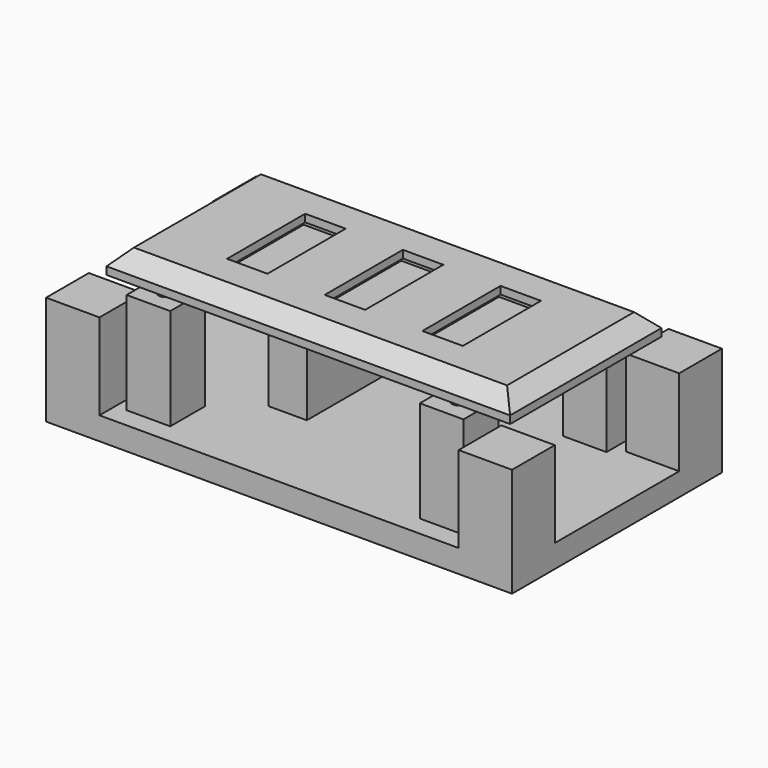
from build123d import *

# Parameters (mm, degrees)
F1_W      = 52.9
F1_H      = 24.8
F1_W_2    = 7.3
F1_H_2    = 14.8
F3_DEPTH  = 3
F4_SIZE   = 2
F5_W      = 5.0038062036
F5_H      = 15.5897745863
F6_DEPTH  = 11.3
F7_W      = 3.5
F7_H      = 15.4839724309
F8_DEPTH  = 4.1
F9_W      = 5.7202084002
F9_H      = 5.7202084002
F9_R      = 0.9572995055
F10_DEPTH = 13.3
F11_W     = 61.0684901476
F11_H     = 34.3860425055
F11_R     = 1.05
F11_W_2   = 5.7202084002
F11_H_2   = 5.7202084002
F12_DEPTH = 3
F13_W     = 7
F13_H     = 7
F15_DEPTH = 11.3
F16_W     = 5.3
F16_H     = 12.8
F17_DEPTH = 3
F18_DEPTH = 2
F19_W     = 37.7444140613
F19_H     = 16.21611882
F20_DEPTH = 1


with BuildPart() as f3:
    # F1 (on Top) → F3 (new body)
    with BuildSketch(Plane.XY):
        Rectangle(F1_W, F1_H)
        with Locations((-12.8, 0)):
            Rectangle(F1_W_2, F1_H_2, mode=Mode.SUBTRACT)
        Rectangle(F1_W_2, F1_H_2, mode=Mode.SUBTRACT)
        with Locations((12.8, 0)):
            Rectangle(F1_W_2, F1_H_2, mode=Mode.SUBTRACT)
        with Locations((-12.8, 0)):
            Rectangle(F1_W_2, F1_H_2)
        Rectangle(F1_W_2, F1_H_2)
        with Locations((12.8, 0)):
            Rectangle(F1_W_2, F1_H_2)
    extrude(amount=F3_DEPTH)

    # F4
    f4_edges = [f3.edges().sort_by_distance(p)[0] for p in [
        (0, 12.4, 3),
        (-26.45, 0, 3),
        (0, -12.4, 3),
        (26.45, 0, 3),
    ]]
    chamfer(f4_edges, length=F4_SIZE)

    # F5 (on face) → F6 (join)
    with BuildSketch(Plane.XY):
        with Locations((-6.3821640797, 0)):
            Rectangle(F5_W, F5_H)
    extrude(amount=-F6_DEPTH)

    # F7 (on face) → F8 (join)
    with BuildSketch(Plane.XY):
        with Locations((18.4370409697, 0)):
            Rectangle(F7_W, F7_H)
    extrude(amount=-F8_DEPTH)

    # F16 (on Top) → F17 (cut)
    with BuildSketch(Plane.XY):
        with Locations((-12.8, 0)):
            Rectangle(F16_W, F16_H)
        Rectangle(F16_W, F16_H)
        with Locations((12.8, 0)):
            Rectangle(F16_W, F16_H)
    extrude(amount=F17_DEPTH, mode=Mode.SUBTRACT)

    # F1 (on Top) → F18 (cut)
    with BuildSketch(Plane.XY):
        with Locations((-12.8, 0)):
            Rectangle(F1_W_2, F1_H_2)
        Rectangle(F1_W_2, F1_H_2)
        with Locations((12.8, 0)):
            Rectangle(F1_W_2, F1_H_2)
    extrude(amount=F18_DEPTH, mode=Mode.SUBTRACT)


with BuildPart() as f10:
    # F9 (on face) → F10 (new body)
    with BuildSketch(Plane(origin=(0, 0, 0), x_dir=(1, 0, 0), z_dir=(0, 0, -1))):
        with Locations((-19.2139537245, 11.7141148951)):
            Rectangle(F9_W, F9_H)
        with Locations((-19.2139537245, 11.7141148951)):
            Circle(F9_R, mode=Mode.SUBTRACT)
    extrude(amount=F10_DEPTH)


with BuildPart() as f10b:
    # F9 (on face) → F10, piece 2 (new body)
    with BuildSketch(Plane(origin=(0, 0, 0), x_dir=(1, 0, 0), z_dir=(0, 0, -1))):
        with Locations((19.2139537245, 11.7141148951)):
            Rectangle(F9_W, F9_H)
        with Locations((19.2139537245, 11.7141148951)):
            Circle(F9_R, mode=Mode.SUBTRACT)
    extrude(amount=F10_DEPTH)


with BuildPart() as f10c:
    # F9 (on face) → F10, piece 3 (new body)
    with BuildSketch(Plane(origin=(0, 0, 0), x_dir=(1, 0, 0), z_dir=(0, 0, -1))):
        with Locations((-19.2139537245, -11.7141148951)):
            Rectangle(F9_W, F9_H)
        with Locations((-19.2139537245, -11.7141148951)):
            Circle(F9_R, mode=Mode.SUBTRACT)
    extrude(amount=F10_DEPTH)


with BuildPart() as f10d:
    # F9 (on face) → F10, piece 4 (new body)
    with BuildSketch(Plane(origin=(0, 0, 0), x_dir=(1, 0, 0), z_dir=(0, 0, -1))):
        with Locations((19.2139537245, -11.7141148951)):
            Rectangle(F9_W, F9_H)
        with Locations((19.2139537245, -11.7141148951)):
            Circle(F9_R, mode=Mode.SUBTRACT)
    extrude(amount=F10_DEPTH)


with BuildPart() as f12:
    # F11 (on face) → F12 (new body)
    with BuildSketch(Plane(origin=(0, 0, -13.3), x_dir=(1, 0, 0), z_dir=(0, 0, -1))):
        Rectangle(F11_W, F11_H)
        with Locations((-19.2139537245, -11.7141148951)):
            Circle(F11_R, mode=Mode.SUBTRACT)
        with Locations((19.2139537245, -11.7141148951)):
            Circle(F11_R, mode=Mode.SUBTRACT)
        with Locations((-19.2139537245, 11.7141148951)):
            Rectangle(F11_W_2, F11_H_2, mode=Mode.SUBTRACT)
        with Locations((19.2139537245, 11.7141148951)):
            Circle(F11_R, mode=Mode.SUBTRACT)
        with Locations((-19.2139537245, 11.7141148951)):
            Rectangle(F11_W_2, F11_H_2)
        with Locations((-19.2139537245, 11.7141148951)):
            Circle(F11_R, mode=Mode.SUBTRACT)
    extrude(amount=F12_DEPTH)

    # F13 (on face) → F15 (join)
    with BuildSketch(Plane.XY.offset(-13.3)):
        with Locations((-27.0342450738, 13.6930212528)):
            Rectangle(F13_W, F13_H)
        with Locations((27.0342450738, 13.6930212528)):
            Rectangle(F13_W, F13_H)
        with Locations((27.0342450738, -13.6930212528)):
            Rectangle(F13_W, F13_H)
        with Locations((-27.0342450738, -13.6930212528)):
            Rectangle(F13_W, F13_H)
    extrude(amount=F15_DEPTH)


with BuildPart() as f20:
    # F19 (on Top) → F20 (new body)
    with BuildSketch(Plane.XY):
        with Locations((1.7853435129, -0.0187330879)):
            Rectangle(F19_W, F19_H)
    extrude(amount=F20_DEPTH)


solid = Compound([f3.part, f10.part, f10b.part, f10c.part, f10d.part, f12.part, f20.part])
